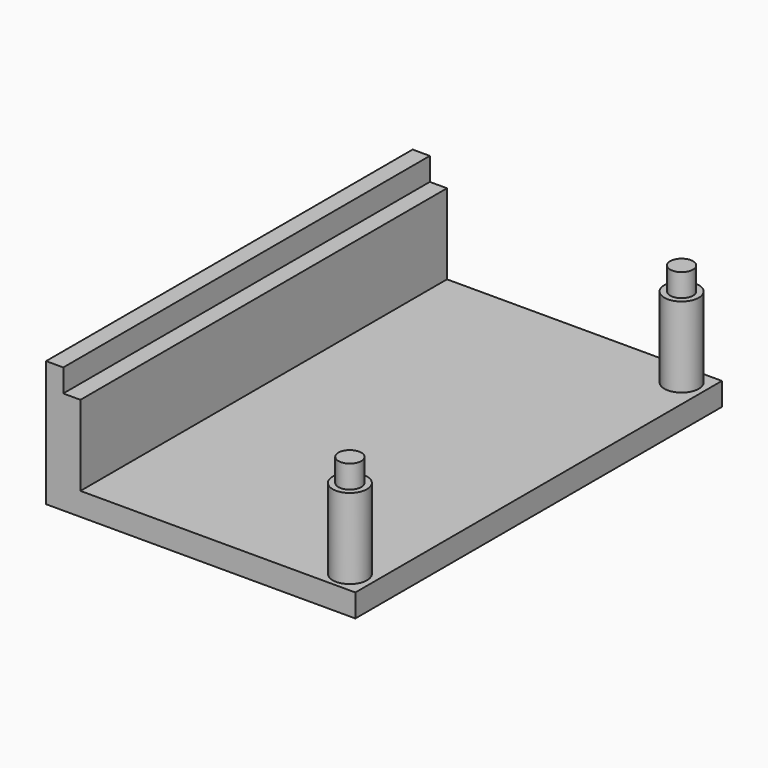
from build123d import *

# Parameters (mm, degrees)
F0_W     = 24
F0_H     = 40
F0_R     = 1.5
F0_W_2   = 3
F1_DEPTH = 2
F2_DEPTH = 9
F3_DEPTH = 9
F4_W     = 1.5
F4_H     = 40
F4_R     = 1
F5_DEPTH = 2


with BuildPart() as f1:
    # F0 (on Top) → F1 (new body)
    with BuildSketch(Plane.XY):
        with Locations((-24.2441255752, 2.3181930908)):
            Rectangle(F0_W, F0_H)
        with Locations((-14.2441255752, -15.7818069092)):
            Circle(F0_R, mode=Mode.SUBTRACT)
        with Locations((-14.2441255752, 20.4181930908)):
            Circle(F0_R, mode=Mode.SUBTRACT)
        with Locations((-24.2441255752, 2.3181930908)):
            Rectangle(F0_W, F0_H)
        with Locations((-14.2441255752, -15.7818069092)):
            Circle(F0_R, mode=Mode.SUBTRACT)
        with Locations((-14.2441255752, 20.4181930908)):
            Circle(F0_R, mode=Mode.SUBTRACT)
        with Locations((-37.7441255752, 2.3181930908)):
            Rectangle(F0_W_2, F0_H)
        with Locations((-14.2441255752, 20.4181930908)):
            Circle(F0_R)
        with Locations((-14.2441255752, -15.7818069092)):
            Circle(F0_R)
    extrude(amount=F1_DEPTH)

    # F0 (on Top) → F2 (join)
    with BuildSketch(Plane.XY):
        with Locations((-37.7441255752, 2.3181930908)):
            Rectangle(F0_W_2, F0_H)
    extrude(amount=F2_DEPTH)

    # F0 (on Top) → F3 (join, through all)
    with BuildSketch(Plane.XY):
        with Locations((-14.2441255752, 20.4181930908)):
            Circle(F0_R)
        with Locations((-14.2441255752, -15.7818069092)):
            Circle(F0_R)
    extrude(amount=F3_DEPTH)

    # F4 (on face) → F5 (join)
    with BuildSketch(Plane.XY.offset(9)):
        with Locations((-38.4941255752, 2.3181930908)):
            Rectangle(F4_W, F4_H)
        with Locations((-14.2441255752, 20.4181930908)):
            Circle(F4_R)
        with Locations((-14.2441255752, -15.7818069092)):
            Circle(F4_R)
    extrude(amount=F5_DEPTH)


solid = f1.part
